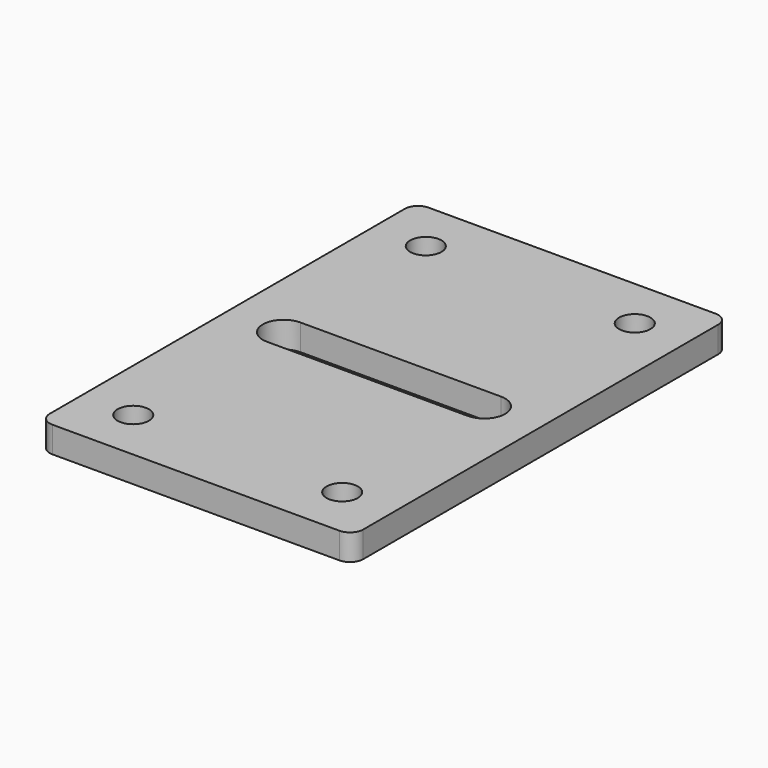
from build123d import *

# Parameters (mm, degrees)
F0_R     = 1.905
F1_DEPTH = 3.175


with BuildPart() as f1:
    # F0 (on Top) → F1 (new body)
    with BuildSketch(Plane.XY):
        with BuildLine():
            ThreePointArc((0, 1.6002), (0.468688, 0.468688), (1.6002, 0))
            Line((1.6002, 0), (36.4998, 0))
            ThreePointArc((36.4998, 0), (37.631312, 0.468688), (38.1, 1.6002))
            Line((38.1, 1.6002), (38.1, 55.5498))
            ThreePointArc((38.1, 55.5498), (37.631312, 56.681312), (36.4998, 57.15))
            Line((36.4998, 57.15), (1.6002, 57.15))
            ThreePointArc((1.6002, 57.15), (0.468688, 56.681312), (0, 55.5498))
            Line((0, 55.5498), (0, 1.6002))
        make_face()
        with Locations((6.35, 6.35)):
            Circle(F0_R, mode=Mode.SUBTRACT)
        with Locations((31.75, 6.35)):
            Circle(F0_R, mode=Mode.SUBTRACT)
        with Locations((6.35, 50.8)):
            Circle(F0_R, mode=Mode.SUBTRACT)
        with BuildLine():
            ThreePointArc((6.858, 26.035), (4.318, 28.575), (6.858, 31.115))
            Line((6.858, 31.115), (31.242, 31.115))
            ThreePointArc((31.242, 31.115), (33.038051, 30.371051), (33.782, 28.575))
            ThreePointArc((33.782, 28.575), (33.038051, 26.778949), (31.242, 26.035))
            Line((31.242, 26.035), (6.858, 26.035))
        make_face(mode=Mode.SUBTRACT)
        with Locations((31.75, 50.8)):
            Circle(F0_R, mode=Mode.SUBTRACT)
    extrude(amount=F1_DEPTH)


solid = f1.part
